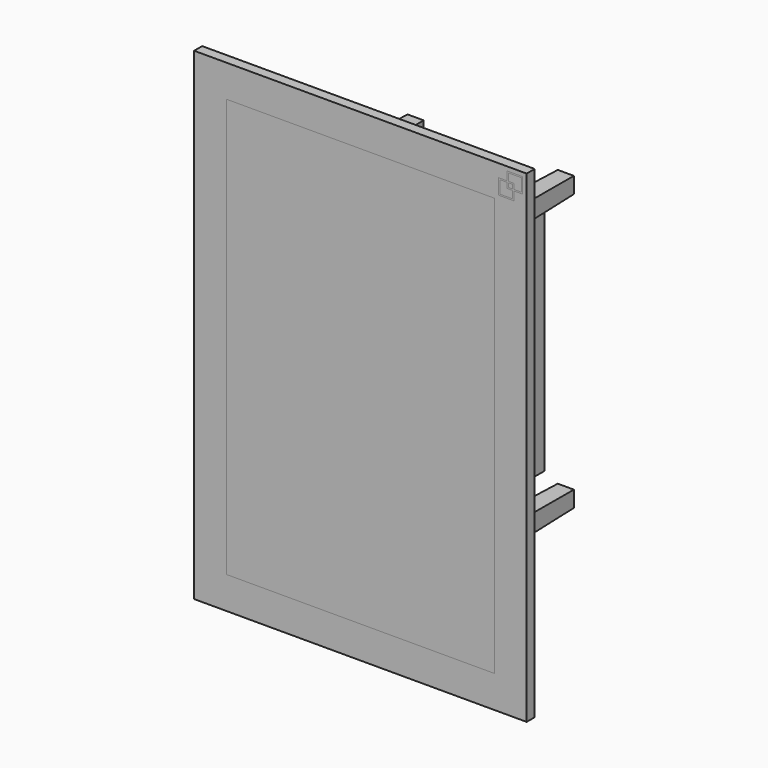
from build123d import *

# Parameters (mm, degrees)
F0_W      = 152.4
F0_H      = 1981.2
F1_DEPTH  = 47.625
F0_W_2    = 1270
F2_DEPTH  = 22.225
F3_W      = 25.4
F3_H      = 114.3
F4_DEPTH  = 1270
F5_W      = 101.6
F5_H      = 101.6
F6_DEPTH  = 723.9
F6_TAPER  = 1
F7_W      = 508
F7_H      = 1168.4
F8_DEPTH  = 749.3
F9_W      = 6.35
F9_H      = 6.35
F10_DEPTH = 0.396875
F11_DEPTH = 0.396875


with BuildPart() as f1:
    # F0 (on Front) → F1 (new body)
    with BuildSketch(Plane.XZ):
        Polygon((-152.4, 2133.6), (0, 2133.6), (0, 2286), (-1574.8, 2286), (-1574.8, 2133.6), (-1422.4, 2133.6), align=None)
        with Locations((-1498.6, 1143)):
            Rectangle(F0_W, F0_H)
        with Locations((-76.2, 1143)):
            Rectangle(F0_W, F0_H)
        Polygon((-1574.8, 0), (0, 0), (0, 152.4), (-152.4, 152.4), (-1422.4, 152.4), (-1574.8, 152.4), align=None)
    extrude(amount=-F1_DEPTH)

    # F9 (on face) → F10 (cut)
    with BuildSketch(Plane.XZ):
        Polygon((-60.325, 2200.275), (-60.325, 2193.925), (-19.05, 2193.925), (-19.05, 2266.95), (-92.075, 2266.95), (-92.075, 2225.675), (-85.725, 2225.675), (-85.725, 2260.6), (-25.4, 2260.6), (-25.4, 2200.275), align=None)
        Polygon((-92.075, 2219.325), (-92.075, 2193.925), (-66.675, 2193.925), (-66.675, 2200.275), (-85.725, 2200.275), (-85.725, 2219.325), align=None)
        with Locations((-63.5, 2197.1)):
            Rectangle(F9_W, F9_H)
        Polygon((-66.675, 2219.325), (-66.675, 2200.275), (-60.325, 2200.275), (-60.325, 2225.675), (-85.725, 2225.675), (-85.725, 2219.325), align=None)
        with Locations((-88.9, 2222.5)):
            Rectangle(F9_W, F9_H)
        Polygon((-60.325, 2193.925), (-66.675, 2193.925), (-66.675, 2159), (-127, 2159), (-127, 2219.325), (-92.075, 2219.325), (-92.075, 2225.675), (-133.35, 2225.675), (-133.35, 2152.65), (-60.325, 2152.65), align=None)
    extrude(amount=-F10_DEPTH, mode=Mode.SUBTRACT)


with BuildPart() as f2:
    # F0 (on Front) → F2 (new body)
    with BuildSketch(Plane.XZ):
        with Locations((-787.4, 1143)):
            Rectangle(F0_W_2, F0_H)
    extrude(amount=-F2_DEPTH)


with BuildPart() as f4:
    # F3 (on face) → F4 (new body, through all)
    with BuildSketch(Plane.YZ.offset(-1422.4)):
        with Locations((34.925, 488.95)):
            Rectangle(F3_W, F3_H)
    extrude(amount=F4_DEPTH)


with BuildPart() as f4b:
    # F3 (on face) → F4, piece 2 (new body, through all)
    with BuildSketch(Plane.YZ.offset(-1422.4)):
        with Locations((34.925, 1797.05)):
            Rectangle(F3_W, F3_H)
    extrude(amount=F4_DEPTH)


with BuildPart() as f6:
    # F5 (on face) → F6 (new body)
    with BuildSketch(Plane(origin=(0, 47.625, 0), x_dir=(-1, 0, 0), z_dir=(0, 1, 0))):
        with Locations((431.8, 1796.7336519241)):
            Rectangle(F5_W, F5_H)
    extrude(amount=F6_DEPTH, taper=F6_TAPER)


with BuildPart() as f6b:
    # F5 (on face) → F6, piece 2 (new body)
    with BuildSketch(Plane(origin=(0, 47.625, 0), x_dir=(-1, 0, 0), z_dir=(0, 1, 0))):
        with Locations((1143, 1796.7336519241)):
            Rectangle(F5_W, F5_H)
    extrude(amount=F6_DEPTH, taper=F6_TAPER)


with BuildPart() as f6c:
    # F5 (on face) → F6, piece 3 (new body)
    with BuildSketch(Plane(origin=(0, 47.625, 0), x_dir=(-1, 0, 0), z_dir=(0, 1, 0))):
        with Locations((431.8, 488.6336519241)):
            Rectangle(F5_W, F5_H)
    extrude(amount=F6_DEPTH, taper=F6_TAPER)


with BuildPart() as f6d:
    # F5 (on face) → F6, piece 4 (new body)
    with BuildSketch(Plane(origin=(0, 47.625, 0), x_dir=(-1, 0, 0), z_dir=(0, 1, 0))):
        with Locations((1143, 488.6336519241)):
            Rectangle(F5_W, F5_H)
    extrude(amount=F6_DEPTH, taper=F6_TAPER)


with BuildPart() as f8:
    # F7 (on face) → F8 (new body, through all)
    with BuildSketch(Plane(origin=(0, 22.225, 0), x_dir=(-1, 0, 0), z_dir=(0, 1, 0))):
        with Locations((787.4, 1143)):
            Rectangle(F7_W, F7_H)
    extrude(amount=F8_DEPTH)


with BuildPart() as f11:
    # F11 (new, through all): a face of the model
    f11_faces = [f1.part.faces().sort_by_distance(p)[0] for p in [
        (-90.4585538982, 0.396875, 2246.3125),
    ]]
    extrude(f11_faces, amount=F11_DEPTH)


solid = Compound([f1.part, f2.part, f4.part, f4b.part, f6.part, f6b.part, f6c.part, f6d.part, f8.part, f11.part])
